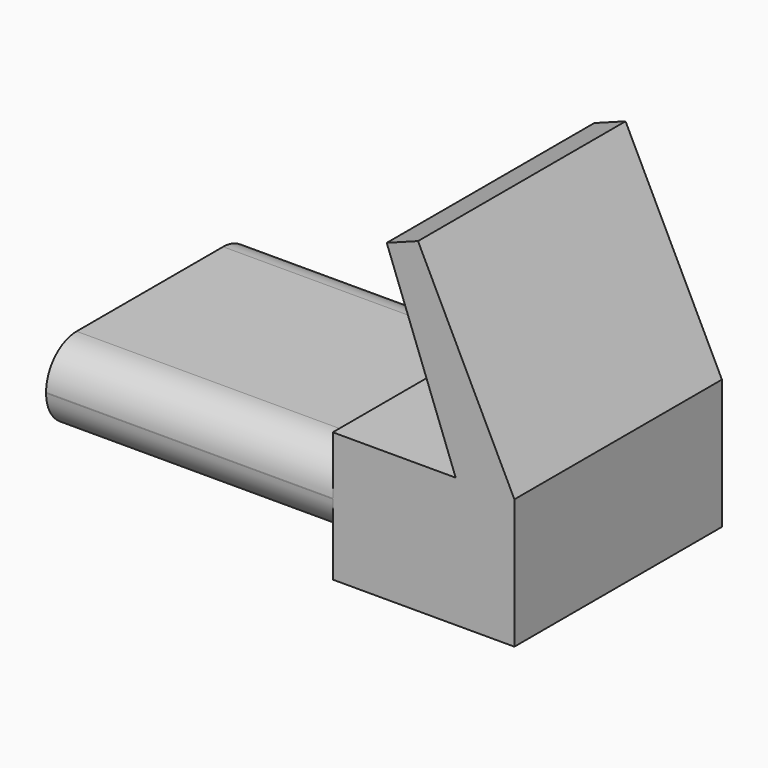
from build123d import *

# Parameters (mm, degrees)
F1_DEPTH = 25.4
F2_R     = 3.7338


with BuildPart() as f1:
    # F0 (on Front) → F1 (new body)
    with BuildSketch(Plane.XZ):
        Polygon((-33.354212, 4.402221), (-33.354212, -3.141579), (-5.280525, -3.141579), (-5.280525, -6.35), (12.499475, -6.35), (12.499475, 6.35), (3.06302, 25.543166), (0, 24.39737), (6.751053, 6.35), (-5.280525, 6.35), (-5.280525, 4.402221), align=None)
    extrude(amount=F1_DEPTH)

    # F2
    f2_edges = [f1.edges().sort_by_distance(p)[0] for p in [
        (-19.317368, -25.4, 4.402221),
        (-19.317368, -25.4, -3.141579),
        (-19.317368, 0, 4.402221),
        (-19.317368, 0, -3.141579),
    ]]
    fillet(f2_edges, radius=F2_R)


solid = f1.part
